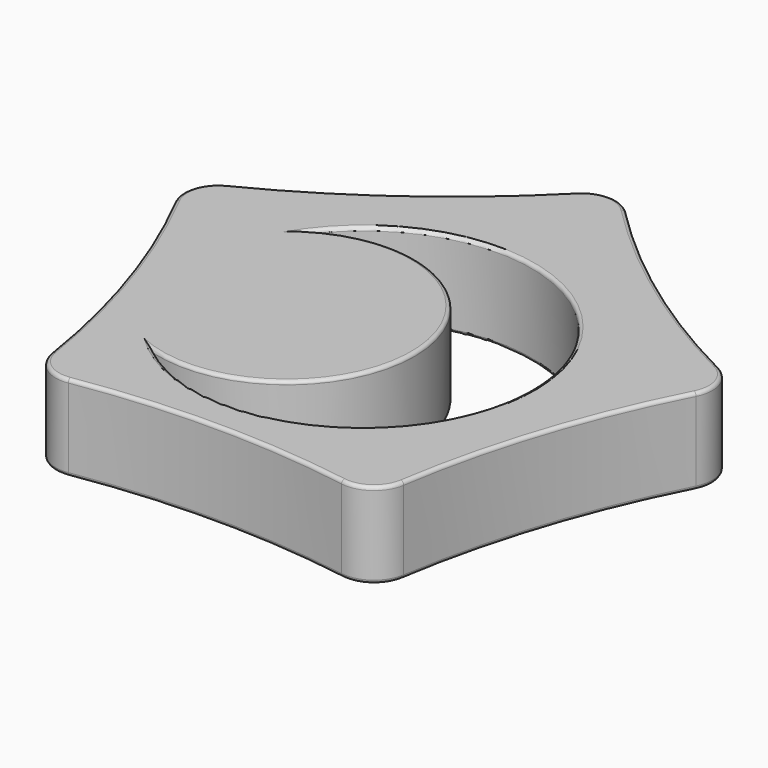
from build123d import *

# Parameters (mm, degrees)
F1_DEPTH = 5
F2_R     = 2
F3_R     = 0.2


with BuildPart() as f1:
    # F0 (on Top) → F1 (new body)
    with BuildSketch(Plane.XY):
        with BuildLine():
            ThreePointArc((-10, -13.763819), (0, -12.753614), (10, -13.763819))
            ThreePointArc((10, -13.763819), (12.129408, -3.941083), (16.18034, 5.257311))
            ThreePointArc((16.18034, 5.257311), (7.496386, 10.317891), (0, 17.013016))
            ThreePointArc((0, 17.013016), (-7.496386, 10.317891), (-16.18034, 5.257311))
            ThreePointArc((-16.18034, 5.257311), (-12.129408, -3.941083), (-10, -13.763819))
        make_face()
        with BuildLine():
            ThreePointArc((-8.66945, 4.855534), (9.033492, 0.336782), (-6.876256, -8.646158))
            ThreePointArc((-6.876256, -8.646158), (2.657094, -0.510084), (-8.66945, 4.855534))
        make_face(mode=Mode.SUBTRACT)
    extrude(amount=F1_DEPTH)

    # F2
    f2_edges = [f1.edges().sort_by_distance(p)[0] for p in [
        (-16.18034, 5.257311, 2.5),
        (0, 17.013016, 2.5),
        (16.18034, 5.257311, 2.5),
        (10, -13.763819, 2.5),
        (-10, -13.763819, 2.5),
    ]]
    fillet(f2_edges, radius=F2_R)

    # F3
    f3_edges = [f1.edges().sort_by_distance(p)[0] for p in [
        (-12.129408, -3.941083, 5),
        (-15.326895, 4.98001, 5),
        (-9.472542, -13.037836, 5),
        (-7.496386, 10.317891, 5),
        (0, -12.753614, 5),
        (0, 16.115652, 5),
        (9.472542, -13.037836, 5),
        (7.496386, 10.317891, 5),
        (12.129408, -3.941083, 5),
        (15.326895, 4.98001, 5),
        (9.033492, 0.336782, 5),
        (2.657094, -0.510084, 5),
        (-12.129408, -3.941083, 0),
        (-15.326895, 4.98001, 0),
        (-9.472542, -13.037836, 0),
        (-7.496386, 10.317891, 0),
        (0, -12.753614, 0),
        (0, 16.115652, 0),
        (9.472542, -13.037836, 0),
        (7.496386, 10.317891, 0),
        (12.129408, -3.941083, 0),
        (15.326895, 4.98001, 0),
        (9.033492, 0.336782, 0),
        (2.657094, -0.510084, 0),
    ]]
    fillet(f3_edges, radius=F3_R)


solid = f1.part
